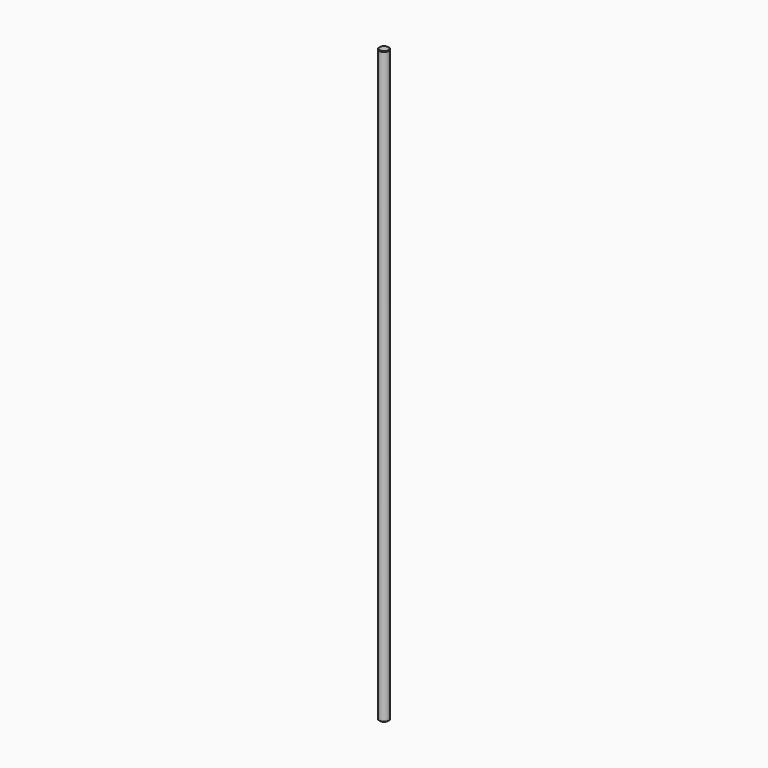
from build123d import *

# Parameters (mm, degrees)
SKETCH_R     = 4
PAD_DEPTH    = 487
CHAMFER_SIZE = 0.5


with BuildPart() as part:
    # Sketch → Pad (new body)
    with BuildSketch(Plane.XY):
        Circle(SKETCH_R)
    extrude(amount=PAD_DEPTH)

    # Chamfer
    chamfer_edges = [part.edges().sort_by_distance(p)[0] for p in [
        (-4, 0, 0),
        (-4, 0, 487),
    ]]
    chamfer(chamfer_edges, length=CHAMFER_SIZE)


solid = part.part
